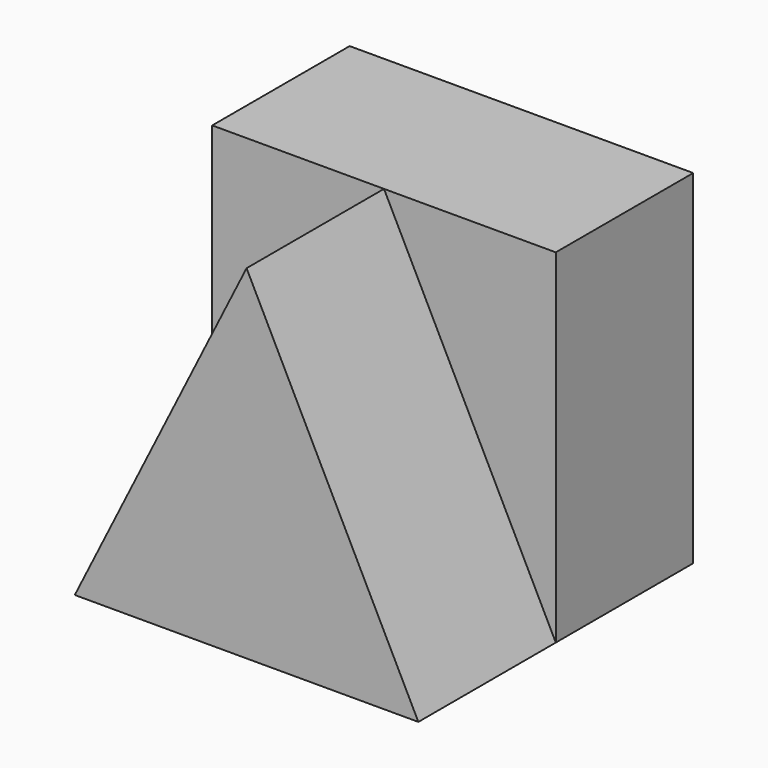
from build123d import *

# Parameters (mm, degrees)
F0_W     = 40
F0_H     = 40
F1_DEPTH = 20
F3_DEPTH = 20


with BuildPart() as f1:
    # F0 (on Front) → F1 (new body)
    with BuildSketch(Plane.XZ):
        with Locations((20, 20)):
            Rectangle(F0_W, F0_H)
    extrude(amount=F1_DEPTH)

    # F2 (on face) → F3 (join)
    with BuildSketch(Plane.XZ.offset(20)):
        Polygon((20, 40), (0, 0), (40, 0), align=None)
    extrude(amount=F3_DEPTH)


solid = f1.part
